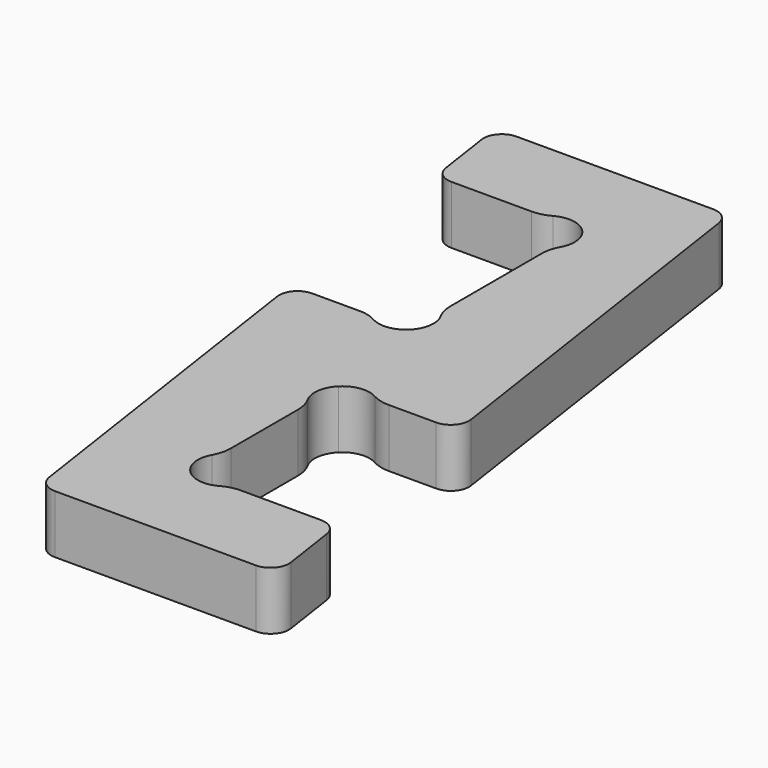
from build123d import *

# Parameters (mm, degrees)
F1_DEPTH = 6.35
F2_R     = 2
F3_R     = 4


with BuildPart() as f1:
    # F0 (on Top) → F1 (new body)
    with BuildSketch(Plane.XY):
        with BuildLine():
            Line((-26, 0), (0, 0))
            Line((0, 0), (-1.4851485149, 10))
            Line((-1.4851485149, 10), (-13.2425078277, 10))
            ThreePointArc((-13.2425078277, 10), (-15.3638281713, 9.1213203436), (-17.4851485149, 10))
            ThreePointArc((-17.4851485149, 10), (-18.3638281713, 12.1213203436), (-17.4851485149, 14.2426406871))
            Line((-17.4851485149, 14.2426406871), (-17.4851485149, 25.9573593129))
            ThreePointArc((-17.4851485149, 25.9573593129), (-18.3638281713, 28.0786796564), (-17.4851485149, 30.2))
            ThreePointArc((-17.4851485149, 30.2), (-15.3638281713, 31.0786796564), (-13.2425078277, 30.2))
            Line((-13.2425078277, 30.2), (-4.4851485149, 30.2))
            Line((-4.4851485149, 30.2), (-11.2425742574, 75.7))
            Line((-11.2425742574, 75.7), (-36.7524752475, 75.7))
            Line((-36.7524752475, 75.7), (-35.2673267327, 65.7))
            Line((-35.2673267327, 65.7), (-23.5099674198, 65.7))
            ThreePointArc((-23.5099674198, 65.7), (-21.3886470762, 66.5786796564), (-19.2673267327, 65.7))
            ThreePointArc((-19.2673267327, 65.7), (-18.6170084787, 64.7267299535), (-18.3886470762, 63.5786796564))
            ThreePointArc((-18.3886470762, 63.5786796564), (-18.6170084787, 62.4306293593), (-19.2673267327, 61.4573593129))
            Line((-19.2673267327, 61.4573593129), (-19.2673267327, 46.4426406871))
            ThreePointArc((-19.2673267327, 46.4426406871), (-18.6170084787, 45.4693706407), (-18.3886470762, 44.3213203436))
            ThreePointArc((-18.3886470762, 44.3213203436), (-18.6170084787, 43.1732700465), (-19.2673267327, 42.2))
            ThreePointArc((-19.2673267327, 42.2), (-21.3886470762, 41.3213203436), (-23.5099674198, 42.2))
            Line((-23.5099674198, 42.2), (-32.2673267327, 42.2))
            Line((-32.2673267327, 42.2), (-26, 0))
        make_face()
    extrude(amount=F1_DEPTH)

    # F2
    f2_edges = [f1.edges().sort_by_distance(p)[0] for p in [
        (-4.485149, 30.2, 3.175),
        (-36.752475, 75.7, 3.175),
        (-35.267327, 65.7, 3.175),
        (-32.267327, 42.2, 3.175),
        (-11.242574, 75.7, 3.175),
        (-1.485149, 10, 3.175),
        (0, 0, 3.175),
        (-26, 0, 3.175),
    ]]
    fillet(f2_edges, radius=F2_R)

    # F3
    f3_edges = [f1.edges().sort_by_distance(p)[0] for p in [
        (-23.509967, 65.7, 3.175),
        (-19.267327, 61.457359, 3.175),
        (-19.267327, 46.442641, 3.175),
        (-23.509967, 42.2, 3.175),
        (-13.242508, 30.2, 3.175),
        (-17.485149, 25.957359, 3.175),
        (-17.485149, 14.242641, 3.175),
        (-13.242508, 10, 3.175),
    ]]
    fillet(f3_edges, radius=F3_R)


solid = f1.part
